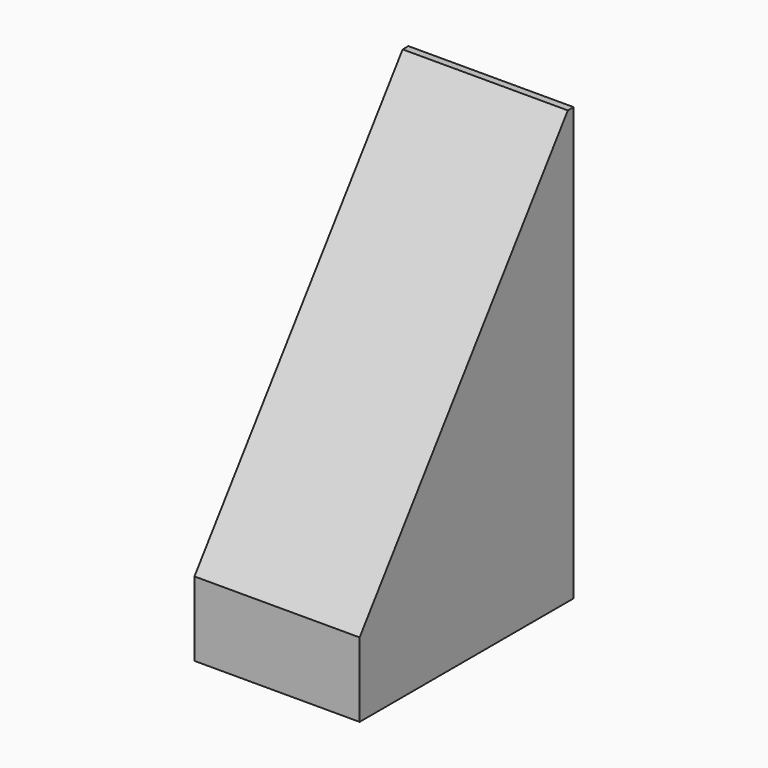
from build123d import *

# Parameters (mm, degrees)
BOX112015002004_W          = 23
BOX112015002004_H          = 34
BOX112015002004_DEPTH      = 80
BOX112015002004_ROLL_ANGLE = -36
BOX112015002003_W          = 21
BOX112015002003_H          = 34
BOX112015002003_DEPTH      = 55


with BuildPart() as cube074:
    # Box112015002004 → Box112015002004 (new body)
    with BuildSketch(Plane.XY):
        with Locations((11.5, 17)):
            Rectangle(BOX112015002004_W, BOX112015002004_H)
    extrude(amount=BOX112015002004_DEPTH)


with BuildPart() as cube074_1:
    # Box112015002004 roll: moved
    add(cube074.part.rotate(Axis((0, 0, 0), (1, 0, 0)), BOX112015002004_ROLL_ANGLE))


with BuildPart() as cube074_2:
    # Box112015002004 placement: moved
    add(cube074_1.part.moved(Location((10, -55, 0))))


with BuildPart() as cut130:
    # Box112015002003 → Box112015002003 (new body)
    with BuildSketch(Plane(origin=(11, -17, -15), x_dir=(1, 0, 0), z_dir=(0, 0, 1))):
        with Locations((10.5, 17)):
            Rectangle(BOX112015002003_W, BOX112015002003_H)
    extrude(amount=BOX112015002003_DEPTH)

    # Cut130: cut Cube074
    add(cube074_2.part, mode=Mode.SUBTRACT)


solid = cut130.part
